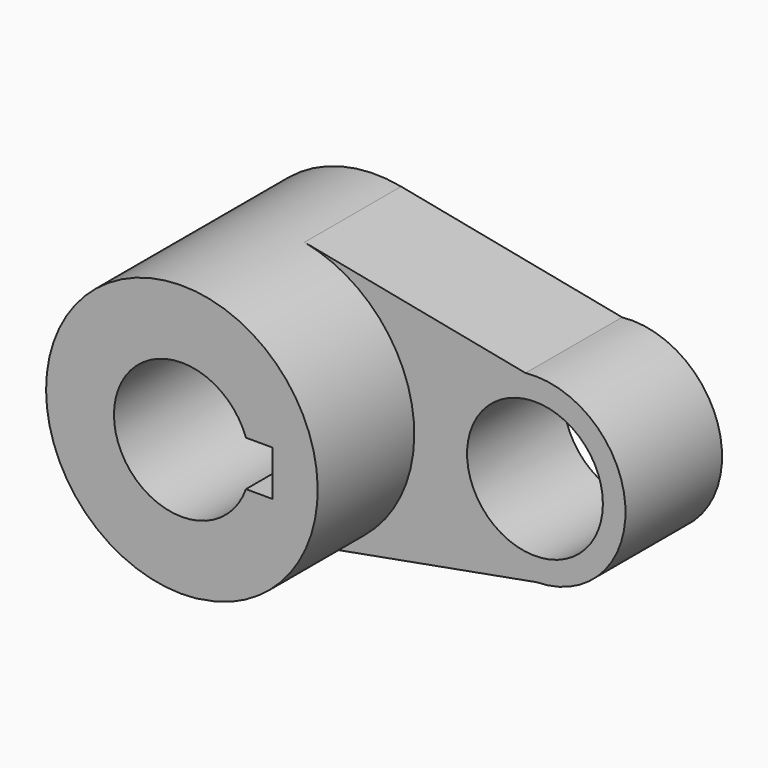
from build123d import *

# Parameters (mm, degrees)
F0_R     = 14.2875
F1_DEPTH = 25.4
F2_DEPTH = 50.8


with BuildPart() as f1:
    # F0 (on Front) → F1 (new body)
    with BuildSketch(Plane.XZ):
        with BuildLine():
            ThreePointArc((7.2685239989, -27.6351078138), (22.6299436397, -17.4475292195), (28.575, 0))
            ThreePointArc((28.575, 0), (22.0602527934, 18.162485284), (5.4865750347, 28.0433257548))
            ThreePointArc((5.4865750347, 28.0433257548), (-28.5465468103, 1.2748687029), (2.9649285011, -28.4207639585))
            Line((2.9649285011, -28.4207639585), (7.2685239989, -27.6351078138))
        make_face()
        with BuildLine():
            ThreePointArc((-13.4703841816, 4.7625), (0, 14.2875), (13.4703841816, 4.7625))
            Line((13.4703841816, 4.7625), (19.05, 4.7625))
            Line((19.05, 4.7625), (19.05, -4.7625))
            Line((19.05, -4.7625), (13.4703841816, -4.7625))
            ThreePointArc((13.4703841816, -4.7625), (0, -14.2875), (-13.4703841816, -4.7625))
            Line((-13.4703841816, -4.7625), (-19.05, -4.7625))
            Line((-19.05, -4.7625), (-19.05, 4.7625))
            Line((-19.05, 4.7625), (-13.4703841816, 4.7625))
        make_face(mode=Mode.SUBTRACT)
        with BuildLine():
            ThreePointArc((5.4865750347, 28.0433257548), (22.0602527934, 18.162485284), (28.575, 0))
            ThreePointArc((28.575, 0), (22.6299436397, -17.4475292195), (7.2685239989, -27.6351078138))
            Line((7.2685239989, -27.6351078138), (54.3115272683, -19.0470273113))
            ThreePointArc((54.3115272683, -19.0470273113), (34.9605862818, -1.1638603674), (51.9860051328, 18.9458808034))
            Line((51.9860051328, 18.9458808034), (5.4865750347, 28.0433257548))
        make_face()
        with BuildLine():
            ThreePointArc((2.9649285011, -28.4207639585), (5.1317834533, -28.1104148598), (7.2685239989, -27.6351078138))
            Line((7.2685239989, -27.6351078138), (2.9649285011, -28.4207639585))
        make_face()
        with BuildLine():
            ThreePointArc((73.025, 0), (66.7227870193, 14.1561444649), (51.9860051328, 18.9458808034))
            ThreePointArc((51.9860051328, 18.9458808034), (34.9605862818, -1.1638603674), (54.3115272683, -19.0470273113))
            ThreePointArc((54.3115272683, -19.0470273113), (67.5638436679, -13.3508736706), (73.025, 0))
        make_face()
        with Locations((53.975, 0)):
            Circle(F0_R, mode=Mode.SUBTRACT)
    extrude(amount=F1_DEPTH)

    # F0 (on Front) → F2 (join)
    with BuildSketch(Plane.XZ):
        with BuildLine():
            ThreePointArc((7.2685239989, -27.6351078138), (22.6299436397, -17.4475292195), (28.575, 0))
            ThreePointArc((28.575, 0), (22.0602527934, 18.162485284), (5.4865750347, 28.0433257548))
            ThreePointArc((5.4865750347, 28.0433257548), (-28.5465468103, 1.2748687029), (2.9649285011, -28.4207639585))
            Line((2.9649285011, -28.4207639585), (7.2685239989, -27.6351078138))
        make_face()
        with BuildLine():
            ThreePointArc((-13.4703841816, 4.7625), (0, 14.2875), (13.4703841816, 4.7625))
            Line((13.4703841816, 4.7625), (19.05, 4.7625))
            Line((19.05, 4.7625), (19.05, -4.7625))
            Line((19.05, -4.7625), (13.4703841816, -4.7625))
            ThreePointArc((13.4703841816, -4.7625), (0, -14.2875), (-13.4703841816, -4.7625))
            Line((-13.4703841816, -4.7625), (-19.05, -4.7625))
            Line((-19.05, -4.7625), (-19.05, 4.7625))
            Line((-19.05, 4.7625), (-13.4703841816, 4.7625))
        make_face(mode=Mode.SUBTRACT)
        with BuildLine():
            ThreePointArc((-13.4703841816, -4.7625), (-14.2875, 0), (-13.4703841816, 4.7625))
            Line((-13.4703841816, 4.7625), (-19.05, 4.7625))
            Line((-19.05, 4.7625), (-19.05, -4.7625))
            Line((-19.05, -4.7625), (-13.4703841816, -4.7625))
        make_face()
    extrude(amount=F2_DEPTH)


solid = f1.part
